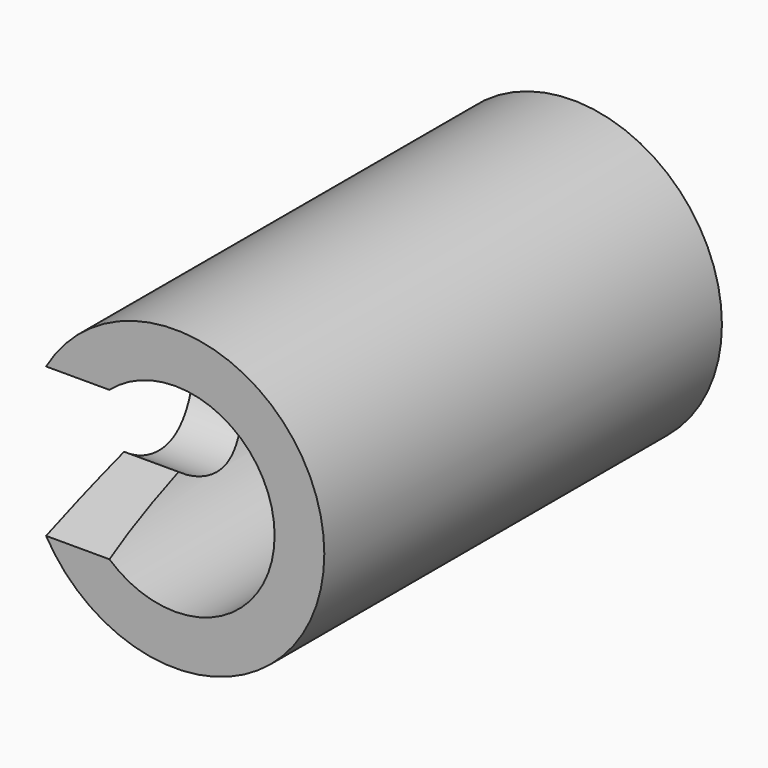
from build123d import *

# Parameters (mm, degrees)
F0_R     = 3
F1_DEPTH = 10
F3_DEPTH = 25
F4_R     = 2
F5_DEPTH = 25


with BuildPart() as f1:
    # F0 (on Front) → F1 (new body)
    with BuildSketch(Plane.XZ):
        Circle(F0_R)
    extrude(amount=-F1_DEPTH)

    # F2 (on Right) → F3 (cut)
    with BuildSketch(Plane.YZ):
        with BuildLine():
            Line((0, 1.5), (0, 0))
            Line((0, 0), (0, -1.5))
            Line((0, -1.5), (2.25, -1))
            ThreePointArc((2.25, -1), (4.25, 0), (2.25, 1))
            Line((2.25, 1), (0, 1.5))
        make_face()
    extrude(amount=-F3_DEPTH, mode=Mode.SUBTRACT)

    # F4 (on Front) → F5 (cut)
    with BuildSketch(Plane.XZ):
        Circle(F4_R)
    extrude(amount=-F5_DEPTH, mode=Mode.SUBTRACT)


solid = f1.part
